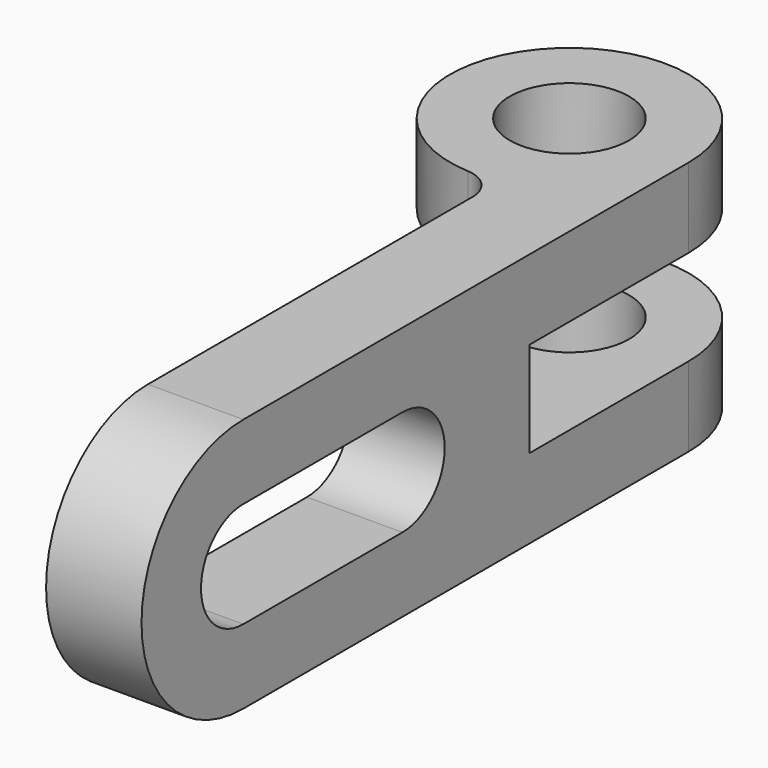
from build123d import *

# Parameters (mm, degrees)
F0_R     = 7.5
F1_DEPTH = 16
F3_W     = 10.303062
F3_H     = 12
F4_DEPTH = 12.001
F5_W     = 37.142856
F5_H     = 12
F6_DEPTH = 40.001
F7_R     = 4


with BuildPart() as f1:
    # F0 (on Top) → F1 (new body, symmetric)
    with BuildSketch(Plane.XY):
        with BuildLine():
            Line((15, -86.085342), (15, 0))
            ThreePointArc((15, 0), (-10.606602, 10.606602), (0, -15))
            ThreePointArc((0, -15), (1.507634, -14.924042), (3, -14.696938))
            Line((3, -14.696938), (3, -86.085342))
            Line((3, -86.085342), (15, -86.085342))
        make_face()
        Circle(F0_R, mode=Mode.SUBTRACT)
    extrude(amount=F1_DEPTH, both=True)

    # F3 (on face) → F4 (cut, through all)
    with BuildSketch(Plane(origin=(3, 0, 0), x_dir=(0, -1, 0), z_dir=(-1, 0, 0))):
        with BuildLine():
            ThreePointArc((70, 16), (86, 0), (70, -16))
            Line((70, -16), (86.085342, -16))
            Line((86.085342, -16), (86.085342, 16))
            Line((86.085342, 16), (70, 16))
        make_face()
        with BuildLine():
            ThreePointArc((45, 6.648935), (38.351065, 0), (45, -6.648935))
            Line((45, -6.648935), (70, -6.648935))
            ThreePointArc((70, -6.648935), (76.648935, 0), (70, 6.648935))
            Line((70, 6.648935), (45, 6.648935))
        make_face()
        with Locations((19.848469, 0)):
            Rectangle(F3_W, F3_H)
    extrude(amount=-F4_DEPTH, mode=Mode.SUBTRACT)

    # F5 (on offset) → F6 (cut, through all)
    with BuildSketch(Plane.YZ.offset(-25)):
        Rectangle(F5_W, F5_H)
    extrude(amount=F6_DEPTH, mode=Mode.SUBTRACT)

    # F7
    f7_edges = [f1.edges().sort_by_distance(p)[0] for p in [
        (3, -14.696938, -11),
        (3, -14.696938, 11),
    ]]
    fillet(f7_edges, radius=F7_R)


solid = f1.part
